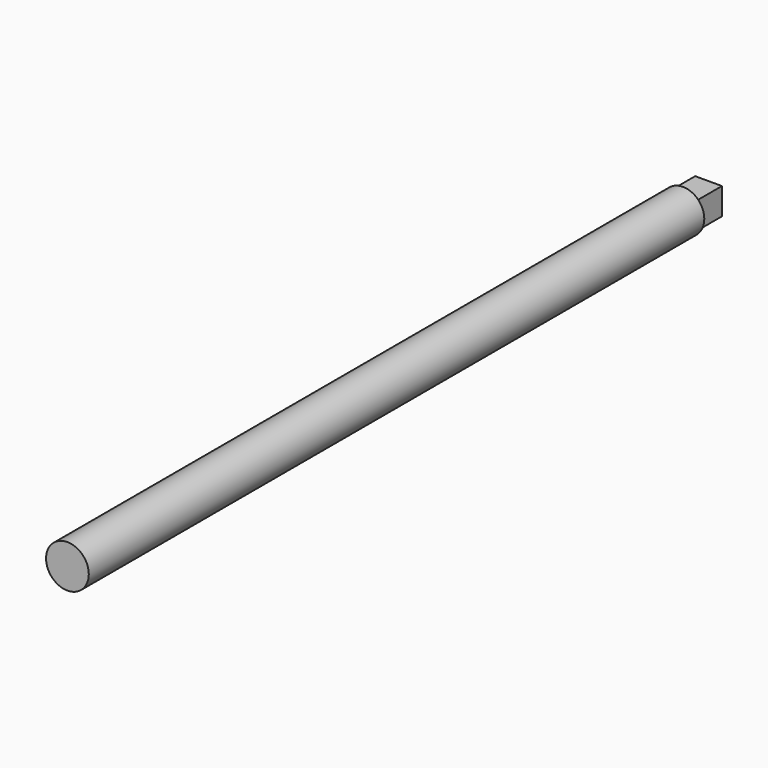
from build123d import *

# Parameters (mm, degrees)
F0_R     = 101.6
F1_DEPTH = 3657.6
F2_W     = 127
F2_H     = 127
F3_DEPTH = 152.4


with BuildPart() as f1:
    # F0 (on Front) → F1 (new body)
    with BuildSketch(Plane.XZ):
        Circle(F0_R)
    extrude(amount=F1_DEPTH)

    # F2 (on face) → F3 (join)
    with BuildSketch(Plane(origin=(0, 0, 0), x_dir=(-1, 0, 0), z_dir=(0, 1, 0))):
        Rectangle(F2_W, F2_H)
    extrude(amount=F3_DEPTH)


solid = f1.part
